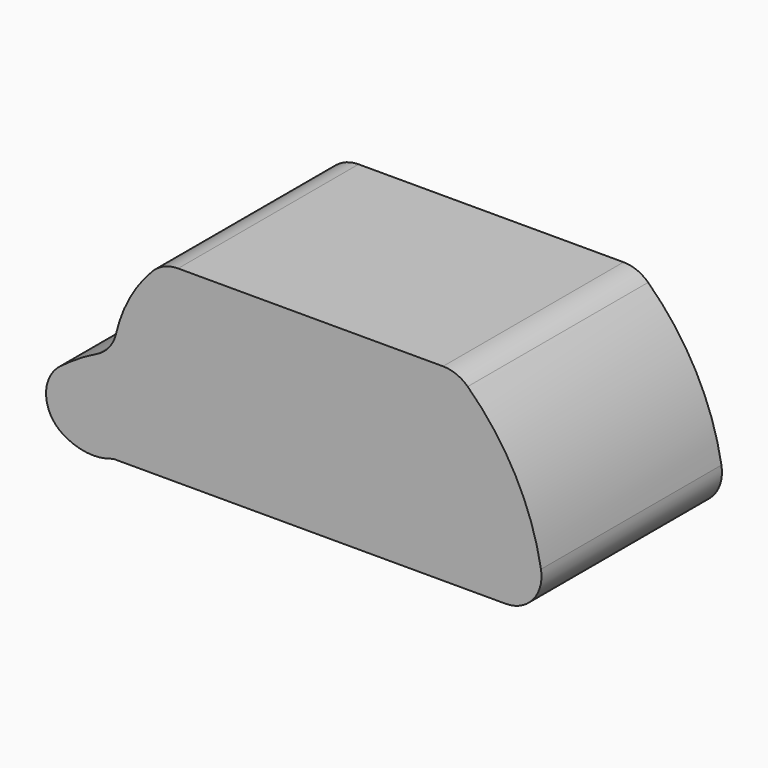
from build123d import *

# Parameters (mm, degrees)
F1_DEPTH = 40


with BuildPart() as f1:
    # F0 (on Front) → F1 (new body)
    with BuildSketch(Plane.XZ):
        with BuildLine():
            ThreePointArc((24.608498, 14.987032), (22.591303, 16.277272), (20.239717, 16.728751))
            Line((20.239717, 16.728751), (-26.741787, 16.728751))
            ThreePointArc((-26.741787, 16.728751), (-29.221214, 16.224685), (-31.307005, 14.792513))
            ThreePointArc((-31.307005, 14.792513), (-35.324455, 9.32291), (-37.737167, 2.97978))
            ThreePointArc((-37.737167, 2.97978), (-38.94654, 0.472523), (-41.112102, -1.276552))
            ThreePointArc((-41.112102, -1.276552), (-44.492143, -3.15522), (-47.67271, -5.354778))
            ThreePointArc((-47.67271, -5.354778), (-50.155475, -10.635261), (-47.280254, -15.712733))
            ThreePointArc((-47.280254, -15.712733), (-42.882702, -17.293432), (-38.243931, -16.728751))
            Line((-38.243931, -16.728751), (31.350223, -16.728751))
            ThreePointArc((31.350223, -16.728751), (36.20704, -14.469452), (37.607793, -9.29925))
            ThreePointArc((37.607793, -9.29925), (33.071665, 3.894869), (24.608498, 14.987032))
        make_face()
    extrude(amount=F1_DEPTH)


solid = f1.part
